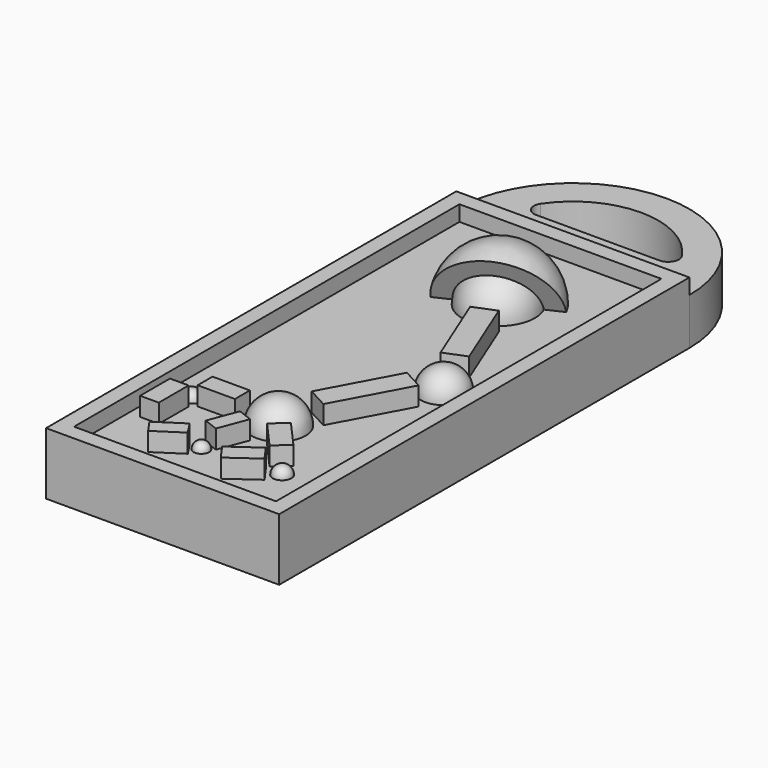
from build123d import *

# Parameters (mm, degrees)
F0_W      = 15
F0_H      = 33
F1_DEPTH  = 3
F3_W      = 2.4
F3_H      = 1.2
F4_DEPTH  = 1.2
F7_DEPTH  = 1.2
F9_ANGLE  = 180
F11_ANGLE = 180
F15_ANGLE = 180
F16_ANGLE = 180
F18_ANGLE = 180
F19_ANGLE = 115
F20_ANGLE = 180
F2_W      = 15
F2_H      = 33
F2_W_2    = 13
F2_H_2    = 31
F21_DEPTH = 1


with BuildPart() as f1:
    # F0 (on Top) → F1 (new body)
    with BuildSketch(Plane.XY):
        with Locations((7.5, 16.5)):
            Rectangle(F0_W, F0_H)
        with BuildLine():
            ThreePointArc((15, 33), (7.5, 40.5), (0, 33))
            Line((0, 33), (15, 33))
        make_face()
        with BuildLine():
            Line((11.4686269666, 35), (3.5313730334, 35))
            ThreePointArc((3.5313730334, 35), (2.9126545999, 35.3726049787), (2.9526149341, 36.09375))
            ThreePointArc((2.9526149341, 36.09375), (7.5, 38.5), (12.0473850659, 36.09375))
            ThreePointArc((12.0473850659, 36.09375), (12.0873454001, 35.3726049787), (11.4686269666, 35))
        make_face(mode=Mode.SUBTRACT)
    extrude(amount=F1_DEPTH)

    # F3 (on face) → F4 (join)
    with BuildSketch(Plane.XY.offset(3)):
        with Locations((4.4729229599, 8.7)):
            Rectangle(F3_W, F3_H)
        Polygon((2.9330339742, 7.8), (1.7330344026, 7.801014062), (1.7310062787, 5.4010149189), (2.9310058502, 5.4000008569), align=None)
        Polygon((7.6412468567, 6.8621327115), (6.7072128218, 7.2193167279), (5.9928447889, 5.3512486581), (6.9268788238, 4.9940646416), align=None)
        Polygon((6.1065359398, 3.762840498), (5.5605625677, 4.6), (3.8578521609, 3.4895371309), (4.4313145482, 2.6703052404), align=None)
        Polygon((9.4921899433, 7.8298745016), (8.5952991901, 7.0326374121), (10.189773369, 5.2388559057), (11.0866641222, 6.0360929952), align=None)
        Polygon((9.0970460407, 2.6836514835), (10.8872594075, 3.9623758874), (10.189773369, 4.9388559057), (8.3995600022, 3.6601315018), align=None)
    extrude(amount=F4_DEPTH)

    # F6 (on face) → F7 (join)
    with BuildSketch(Plane.XY.offset(3)):
        Polygon((8.6297593251, 23.3283319113), (10.5786629425, 18.5073595312), (11.9693280521, 19.069543267), (10.0204244347, 23.8905156471), align=None)
        Polygon((9.485872163, 10.4485981269), (11.9552081585, 15.0248826178), (10.6351260938, 15.737191078), (8.1657900983, 11.1609065871), align=None)
    extrude(amount=F7_DEPTH)

    # F8 (on face) → F9 (revolve)
    with BuildSketch(Plane.XY.offset(3)):
        with BuildLine():
            Line((11.9, 18.6), (11.9, 15.6))
            ThreePointArc((11.9, 15.6), (13.4, 17.1), (11.9, 18.6))
        make_face()
    revolve(axis=Axis((11.9, 17.1, 3), (0, -1, 0)), revolution_arc=F9_ANGLE)

    # F10 (on face) → F11 (revolve)
    with BuildSketch(Plane.XY.offset(3)):
        with BuildLine():
            Line((8.15, 28.55), (8.15, 23.85))
            ThreePointArc((8.15, 23.85), (10.5, 26.2), (8.15, 28.55))
        make_face()
    revolve(axis=Axis((8.15, 26.2, 3), (0, -1, 0)), revolution_arc=F11_ANGLE)

    # F14 (on face) → F15 (revolve)
    with BuildSketch(Plane.XY.offset(3)):
        with BuildLine():
            Line((2.4674874008, 9.2003644818), (2.4674874008, 8.0004137249))
            ThreePointArc((2.4674874008, 8.0004137249), (3.0729229599, 8.6003891034), (2.4674874008, 9.2003644818))
        make_face()
    revolve(axis=Axis((2.4674874008, 8.6003891034, 3), (0, -1, 0)), revolution_arc=F15_ANGLE)

    # F13 (on face) → F16 (revolve)
    with BuildSketch(Plane.XY.offset(3)):
        with BuildLine():
            Line((6.3335492538, 5.0726566499), (6.3335492538, 4.0726566499))
            ThreePointArc((6.3335492538, 4.0726566499), (6.8335492538, 4.5726566499), (6.3335492538, 5.0726566499))
        make_face()
    revolve(axis=Axis((6.3335492538, 4.5726566499, 3), (0, -1, 0)), revolution_arc=F16_ANGLE)

    # F17 (on face) → F18 (revolve)
    with BuildSketch(Plane.XY.offset(3)):
        with BuildLine():
            Line((11.2385163883, 5.5374744504), (11.2385163883, 4.3374744504))
            ThreePointArc((11.2385163883, 4.3374744504), (11.8385163883, 4.9374744504), (11.2385163883, 5.5374744504))
        make_face()
    revolve(axis=Axis((11.2385163883, 4.9374744504, 3), (0, -1, 0)), revolution_arc=F18_ANGLE)

    # F12 (on face) → F19 (revolve)
    with BuildSketch(Plane.XY.offset(3)):
        with BuildLine():
            Line((4.9804255393, 24.7154806374), (11.3195744607, 27.6845193626))
            ThreePointArc((11.3195744607, 27.6845193626), (6.6654806374, 29.3695744607), (4.9804255393, 24.7154806374))
        make_face()
    revolve(axis=Axis((8.15, 26.2, 3), (0.9055927031, 0.4241483893, 0)), revolution_arc=F19_ANGLE)

    # F5 (on face) → F20 (revolve)
    with BuildSketch(Plane.XY.offset(3)):
        with BuildLine():
            Line((7.75, 10.75), (7.75, 7.25))
            ThreePointArc((7.75, 7.25), (9.5, 9), (7.75, 10.75))
        make_face()
    revolve(axis=Axis((7.75, 9, 3), (0, -1, 0)), revolution_arc=F20_ANGLE)

    # F2 (on face) → F21 (join)
    with BuildSketch(Plane.XY.offset(3)):
        with Locations((7.5, 16.5)):
            Rectangle(F2_W, F2_H)
        with Locations((7.5, 16.5)):
            Rectangle(F2_W_2, F2_H_2, mode=Mode.SUBTRACT)
    extrude(amount=F21_DEPTH)


solid = f1.part
